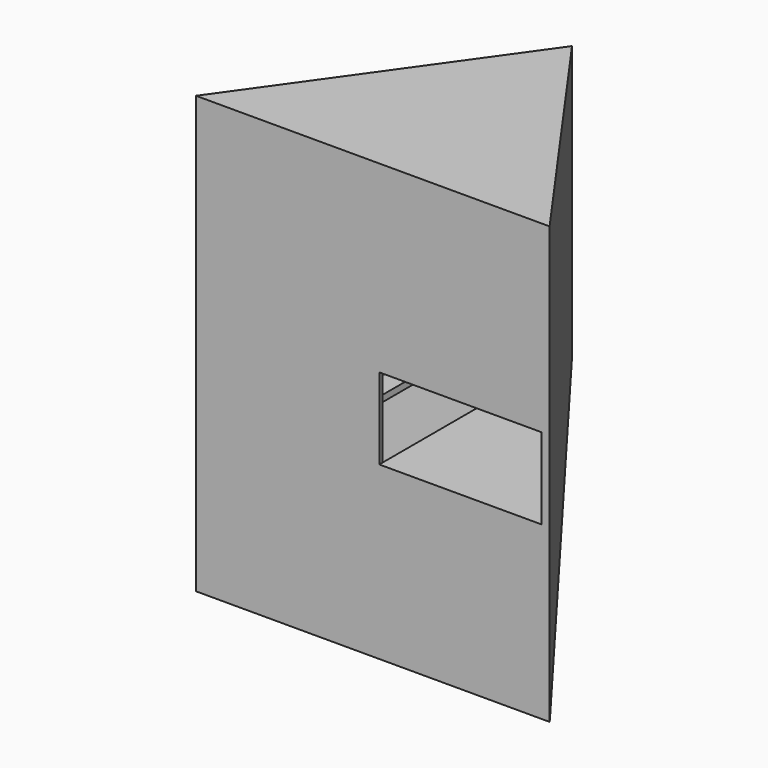
from build123d import *

# Parameters (mm, degrees)
F1_DEPTH       = 5350
F3_DEPTH       = 2500
F5_DEPTH       = 25
F7_DEPTH       = 25
F10_W          = 4160
F10_H          = 80
F12_W          = 882.1843003413
F12_H          = 1800
F13_DEPTH      = 880
F13_DEPTH_BACK = 2000
F14_W          = 2000
F14_H          = 1000
F15_DEPTH      = 50.8


with BuildPart() as f1:
    # F0 (on Top) → F1 (new body)
    with BuildSketch(Plane.XY):
        Polygon((0, 3017.7577264632), (-2178.361798991, -50.8), (0, -50.8), (2178.361798991, -50.8), align=None)
        Polygon((2080, 0), (0, 0), (-2080, 0), (0, 2930), align=None, mode=Mode.SUBTRACT)
    extrude(amount=F1_DEPTH)

    # F2 (on Right) → F3 (cut, symmetric)
    with BuildSketch(Plane.YZ):
        Polygon((3017.7577264632, 2000), (0, 0), (3017.7577264632, 0), align=None)
    extrude(amount=F3_DEPTH, both=True, mode=Mode.SUBTRACT)

    # F4 (on face) → F5 (join)
    with BuildSketch(Plane(origin=(0, 0, 0), x_dir=(1, 0, 0), z_dir=(0, 0.5524343022, -0.8335564419))):
        Polygon((-2142.2990003561, 0), (0, -3620.3399972418), (2142.2990003561, 0), align=None)
    extrude(amount=-F5_DEPTH)

    # F6 (on face) → F7 (join)
    with BuildSketch(Plane.XY.offset(5350)):
        Polygon((2178.361798991, -50.8), (0, 3017.7577264632), (-2178.361798991, -50.8), align=None)
    extrude(amount=F7_DEPTH)

    # F10 (on face) → F11 (join, up to the next surface of F1)
    with BuildSketch(Plane(origin=(0, 0, 0), x_dir=(-1, 0, 0), z_dir=(0, 1, 0))):
        with Locations((0, 3149.9919702425)):
            Rectangle(F10_W, F10_H)
        with Locations((0, 2069.9919702425)):
            Rectangle(F10_W, F10_H)
    extrude(until=Until.NEXT)

    # F12 (on offset) → F13 (cut, two sides)
    with BuildSketch(Plane.XY.offset(2375)) as f13_sk:
        with Locations((-361.0921501707, 900)):
            Rectangle(F12_W, F12_H)
    extrude(amount=-F13_DEPTH, mode=Mode.SUBTRACT)
    extrude(f13_sk.sketch, amount=F13_DEPTH_BACK, mode=Mode.SUBTRACT)

    # F14 (on face) → F15 (cut, through all)
    with BuildSketch(Plane(origin=(0, 0, 0), x_dir=(-1, 0, 0), z_dir=(0, 1, 0))):
        with Locations((-1080, 2609.9919702425)):
            Rectangle(F14_W, F14_H)
    extrude(amount=-F15_DEPTH, mode=Mode.SUBTRACT)


solid = f1.part
